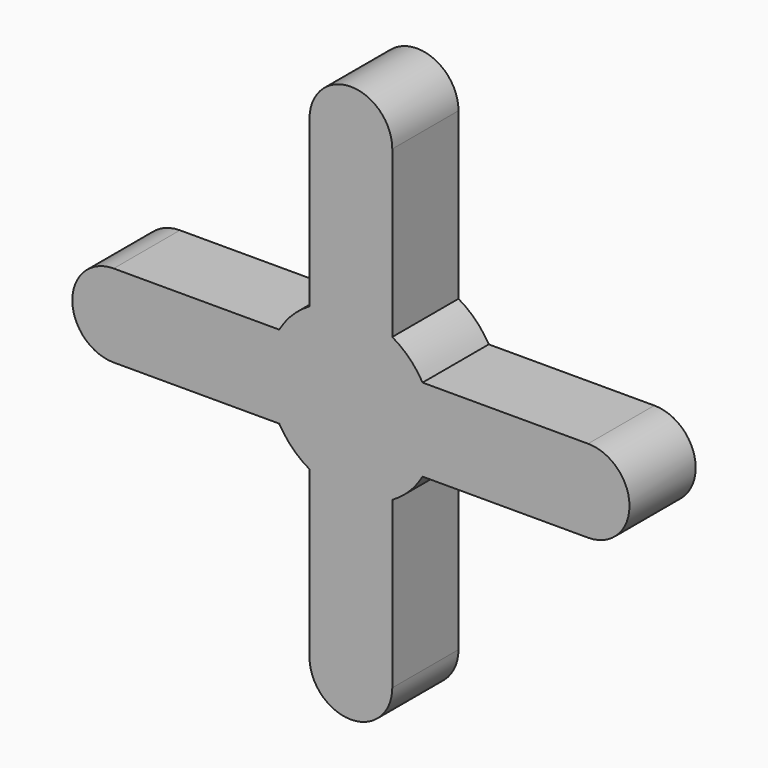
from build123d import *

# Parameters (mm, degrees)
F1_DEPTH = 6.35


with BuildPart() as f1:
    # F0 (on Front) → F1 (new body, symmetric)
    with BuildSketch(Plane.XZ):
        with BuildLine():
            ThreePointArc((6.35, 17.3485226281), (0, 19.05), (-6.35, 17.3485226281))
            ThreePointArc((-6.35, 17.3485226281), (-8.9802561211, 15.3302561211), (-10.9985226281, 12.7))
            ThreePointArc((-10.9985226281, 12.7), (-12.7, 6.35), (-10.9985226281, 0))
            ThreePointArc((-10.9985226281, 0), (-8.9802561211, -2.6302561211), (-6.35, -4.6485226281))
            ThreePointArc((-6.35, -4.6485226281), (0, -6.35), (6.35, -4.6485226281))
            ThreePointArc((6.35, -4.6485226281), (8.9802561211, -2.6302561211), (10.9985226281, 0))
            ThreePointArc((10.9985226281, 0), (12.2672579939, 3.0629981272), (12.7, 6.35))
            ThreePointArc((12.7, 6.35), (12.2672579939, 9.6370018728), (10.9985226281, 12.7))
            ThreePointArc((10.9985226281, 12.7), (8.9802561211, 15.3302561211), (6.35, 17.3485226281))
        make_face()
        with BuildLine():
            Line((-6.35, 42.7485226281), (-6.35, 17.3485226281))
            ThreePointArc((-6.35, 17.3485226281), (0, 19.05), (6.35, 17.3485226281))
            Line((6.35, 17.3485226281), (6.35, 42.7485226281))
            ThreePointArc((6.35, 42.7485226281), (0, 49.0985226281), (-6.35, 42.7485226281))
        make_face()
        with BuildLine():
            ThreePointArc((-10.9985226281, 0), (-12.7, 6.35), (-10.9985226281, 12.7))
            Line((-10.9985226281, 12.7), (-36.3985226281, 12.7))
            ThreePointArc((-36.3985226281, 12.7), (-42.7485226281, 6.35), (-36.3985226281, 0))
            Line((-36.3985226281, 0), (-10.9985226281, 0))
        make_face()
        with BuildLine():
            Line((36.3985226281, 12.7), (10.9985226281, 12.7))
            ThreePointArc((10.9985226281, 12.7), (12.2672579939, 9.6370018728), (12.7, 6.35))
            ThreePointArc((12.7, 6.35), (12.2672579939, 3.0629981272), (10.9985226281, 0))
            Line((10.9985226281, 0), (36.3985226281, 0))
            ThreePointArc((36.3985226281, 0), (42.7485226281, 6.35), (36.3985226281, 12.7))
        make_face()
        with BuildLine():
            ThreePointArc((6.35, -4.6485226281), (0, -6.35), (-6.35, -4.6485226281))
            Line((-6.35, -4.6485226281), (-6.35, -30.0485226281))
            ThreePointArc((-6.35, -30.0485226281), (0, -36.3985226281), (6.35, -30.0485226281))
            Line((6.35, -30.0485226281), (6.35, -4.6485226281))
        make_face()
    extrude(amount=F1_DEPTH, both=True)


solid = f1.part
